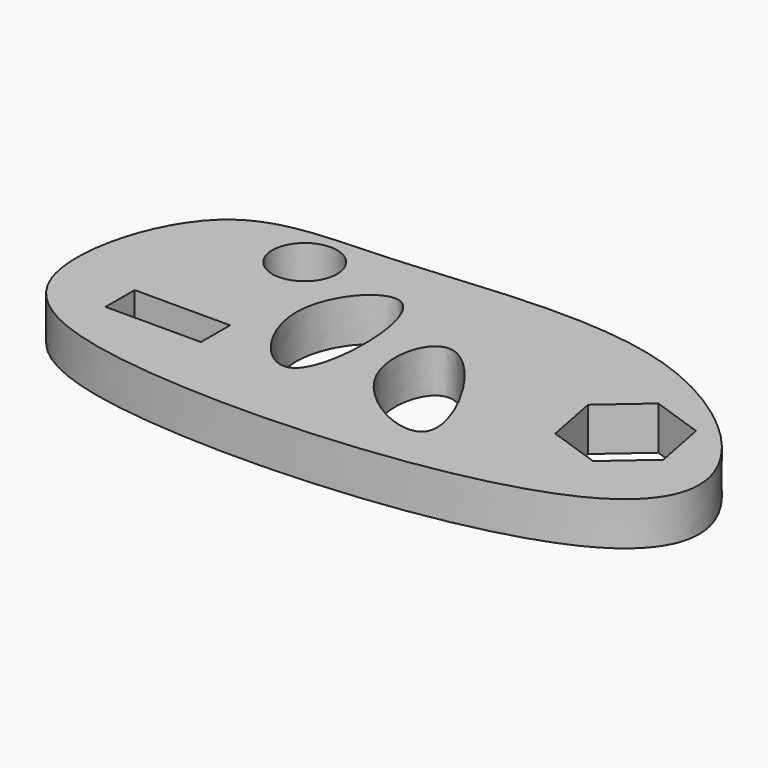
from build123d import *

# Parameters (mm, degrees)
F1_DEPTH = 25.4
F2_W     = 55.8215081692
F2_H     = 21.2938021868
F2_R     = 18.9617490653
F3_DEPTH = 25.4


with BuildPart() as f1:
    # F0 (on Top) → F1 (new body)
    with BuildSketch(Plane.XY):
        with BuildLine():
            add(Edge.make_bspline(
                [(-212.8800451756, -23.8514766097), (-220.2646241655, 3.6055158174), (-197.59606302, 85.5519672276), (-97.9864656561, 78.6876396627), (57.7960807654, 105.9754730275), (167.1921411147, 9.9800425497), (117.0623492011, -69.4152393009), (-136.9347653932, -87.1329753634), (-205.5780742189, -51.0013197534), (-212.8800451756, -23.8514766097)],
                knots=[0, 0, 0, 0, 0.1267159289, 0.2509332358, 0.418319971, 0.5606686901, 0.665526318, 0.8747015864, 1, 1, 1, 1], degree=3))
        make_face()
    extrude(amount=F1_DEPTH)

    # F2 (on face) → F3 (cut)
    with BuildSketch(Plane.XY.offset(25.4)):
        with Locations((-146.4461386204, -24.5973849669)):
            Rectangle(F2_W, F2_H)
        Polygon((82.6809907431, 47.938463431), (58.3916103368, 26.7966416067), (64.5562749158, -4.8094897794), (95.010319901, -15.2737993413), (119.2997003073, 5.868022483), (113.1350357283, 37.4741538691), align=None)
        with Locations((-130.945071578, 56.2156178057)):
            Circle(F2_R)
        with BuildLine():
            add(Edge.make_bspline(
                [(-69.5763155818, -28.7773478776), (-81.5464765011, -36.5315373372), (-124.2633240856, 17.1442236067), (-55.8017880553, 87.7765880491), (-55.2226210249, -19.4791214136), (-69.5763155818, -28.7773478776)],
                knots=[0, 0, 0, 0, 0.3199947682, 0.6162869327, 1, 1, 1, 1], degree=3))
        make_face()
        with BuildLine():
            add(Edge.make_bspline(
                [(17.3731017858, -39.4023954868), (10.9136920024, -51.2782675377), (-52.9744192712, -20.4224019045), (-28.4148878956, 66.2941901318), (24.9419308264, -25.4868136806), (17.3731017858, -39.4023954868)],
                knots=[0, 0, 0, 0, 0.3303639771, 0.6128952105, 1, 1, 1, 1], degree=3))
        make_face()
    extrude(amount=-F3_DEPTH, mode=Mode.SUBTRACT)


solid = f1.part
